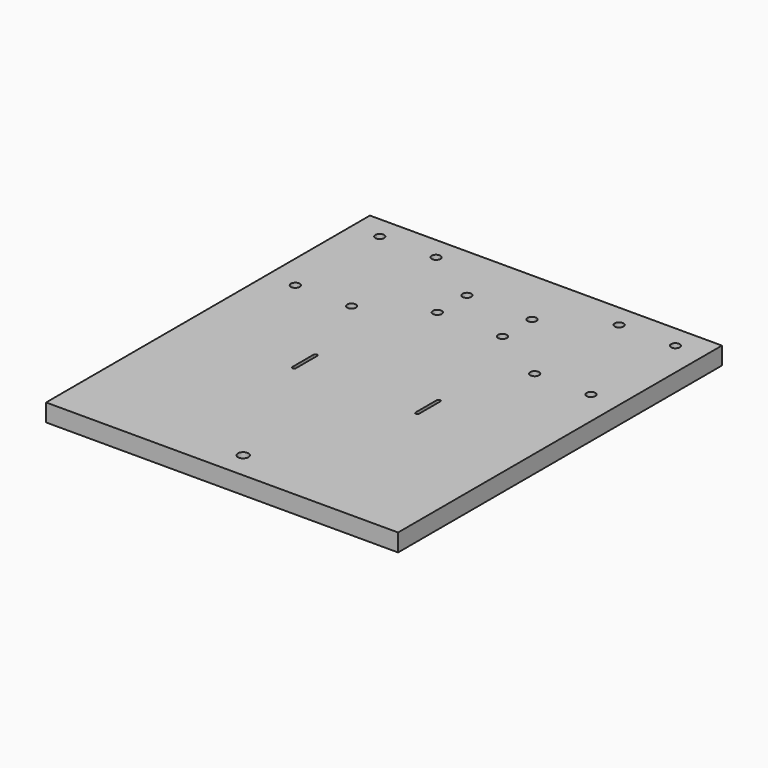
from build123d import *

# Parameters (mm, degrees)
SKETCH_W   = 200
SKETCH_H   = 230
SKETCH_R   = 3
SKETCH_R_2 = 2.5
PAD_DEPTH  = 10


with BuildPart() as part:
    # Sketch → Pad (new body)
    with BuildSketch(Plane.XY):
        with Locations((0, 115)):
            Rectangle(SKETCH_W, SKETCH_H)
        with Locations((0, 15)):
            Circle(SKETCH_R, mode=Mode.SUBTRACT)
        with Locations((84, 217)):
            Circle(SKETCH_R_2, mode=Mode.SUBTRACT)
        with Locations((84, 157)):
            Circle(SKETCH_R_2, mode=Mode.SUBTRACT)
        with Locations((52, 157)):
            Circle(SKETCH_R_2, mode=Mode.SUBTRACT)
        with Locations((52, 217)):
            Circle(SKETCH_R_2, mode=Mode.SUBTRACT)
        with Locations((-84, 217)):
            Circle(SKETCH_R_2, mode=Mode.SUBTRACT)
        with Locations((-52, 217)):
            Circle(SKETCH_R_2, mode=Mode.SUBTRACT)
        with Locations((-84, 157)):
            Circle(SKETCH_R_2, mode=Mode.SUBTRACT)
        with Locations((-52, 157)):
            Circle(SKETCH_R_2, mode=Mode.SUBTRACT)
        with Locations((-18.5, 197)):
            Circle(SKETCH_R_2, mode=Mode.SUBTRACT)
        with Locations((18.5, 197)):
            Circle(SKETCH_R_2, mode=Mode.SUBTRACT)
        with Locations((-18.5, 176)):
            Circle(SKETCH_R_2, mode=Mode.SUBTRACT)
        with Locations((18.5, 176)):
            Circle(SKETCH_R_2, mode=Mode.SUBTRACT)
        with BuildLine():
            ThreePointArc((36, 110), (35, 111), (34, 110))
            Line((34, 110), (34, 95))
            ThreePointArc((34, 95), (35, 94), (36, 95))
            Line((36, 110), (36, 95))
        make_face(mode=Mode.SUBTRACT)
        with BuildLine():
            ThreePointArc((-34, 109.999637), (-35, 110.999637), (-36, 109.999637))
            Line((-36, 109.999637), (-36, 95))
            ThreePointArc((-36, 95), (-35, 94), (-34, 95))
            Line((-34, 109.999637), (-34, 95))
        make_face(mode=Mode.SUBTRACT)
    extrude(amount=PAD_DEPTH)


solid = part.part
